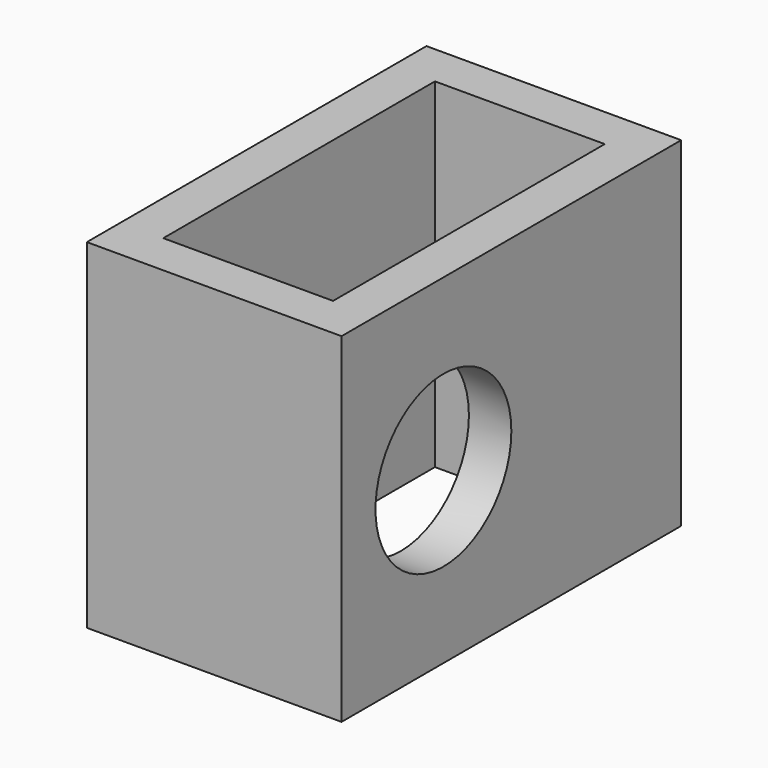
from build123d import *

# Parameters (mm, degrees)
F0_W     = 63.5
F0_H     = 50.8
F0_R     = 12.7
F1_DEPTH = 38.1
F2_W     = 25.4
F2_H     = 50.8
F3_DEPTH = 50.801


with BuildPart() as f1:
    # F0 (on Right) → F1 (new body)
    with BuildSketch(Plane.YZ):
        Rectangle(F0_W, F0_H)
        with Locations((-12.7, 0)):
            Circle(F0_R, mode=Mode.SUBTRACT)
    extrude(amount=F1_DEPTH)

    # F2 (on face) → F3 (cut, through all)
    with BuildSketch(Plane.XY.offset(25.4)):
        with Locations((19.05, 0)):
            Rectangle(F2_W, F2_H)
    extrude(amount=-F3_DEPTH, mode=Mode.SUBTRACT)


solid = f1.part
